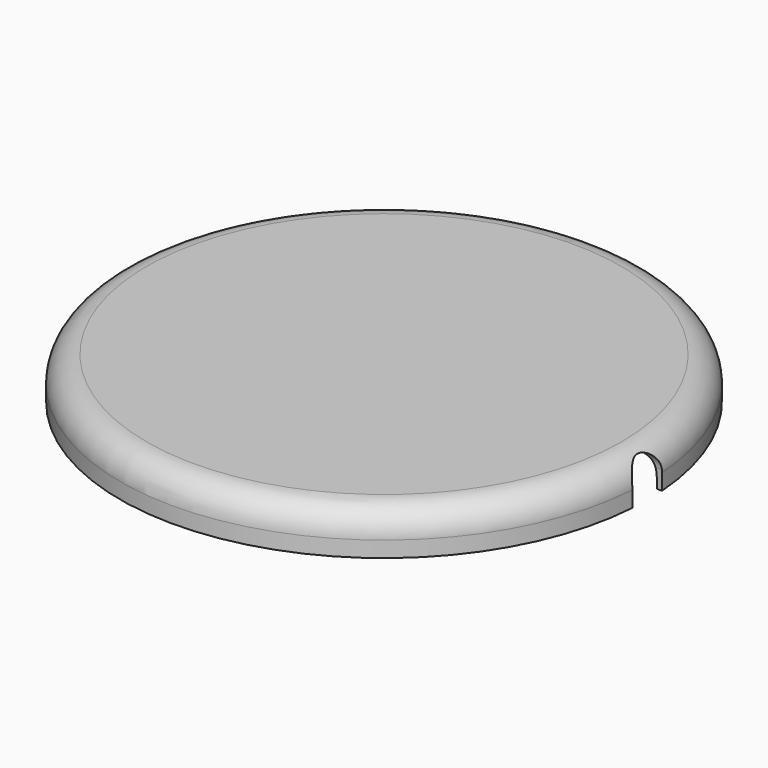
from build123d import *

# Parameters (mm, degrees)
F4_DEPTH = 75


with BuildPart() as f1:
    # F0 (on Front) → F1 (revolve)
    with BuildSketch(Plane.XZ):
        with BuildLine():
            Line((49, 0), (50, 0))
            Line((50, 0), (50, 3))
            ThreePointArc((50, 3), (48.535534, 6.535534), (45, 8))
            Line((45, 8), (0, 8))
            Line((0, 8), (0, 7))
            Line((0, 7), (44, 7))
            ThreePointArc((44, 7), (47.535534, 5.535534), (49, 2))
            Line((49, 2), (49, 0))
        make_face()
    revolve(axis=Axis((0, 0, 4), (0, 0, 1)))

    # F3 (on face) → F4 (cut)
    with BuildSketch(Plane(origin=(0, 0, 0), x_dir=(0, -1, 0), z_dir=(-1, 0, 0))):
        with BuildLine():
            Line((-3.5, 0), (0, 0))
            Line((0, 0), (3.5, 0))
            Line((3.5, 0), (3.5, 3.5))
            ThreePointArc((3.5, 3.5), (2.474874, 5.974874), (0, 7))
            ThreePointArc((0, 7), (-2.474874, 5.974874), (-3.5, 3.5))
            Line((-3.5, 3.5), (-3.5, 0))
        make_face()
    extrude(amount=-F4_DEPTH, mode=Mode.SUBTRACT)


solid = f1.part
